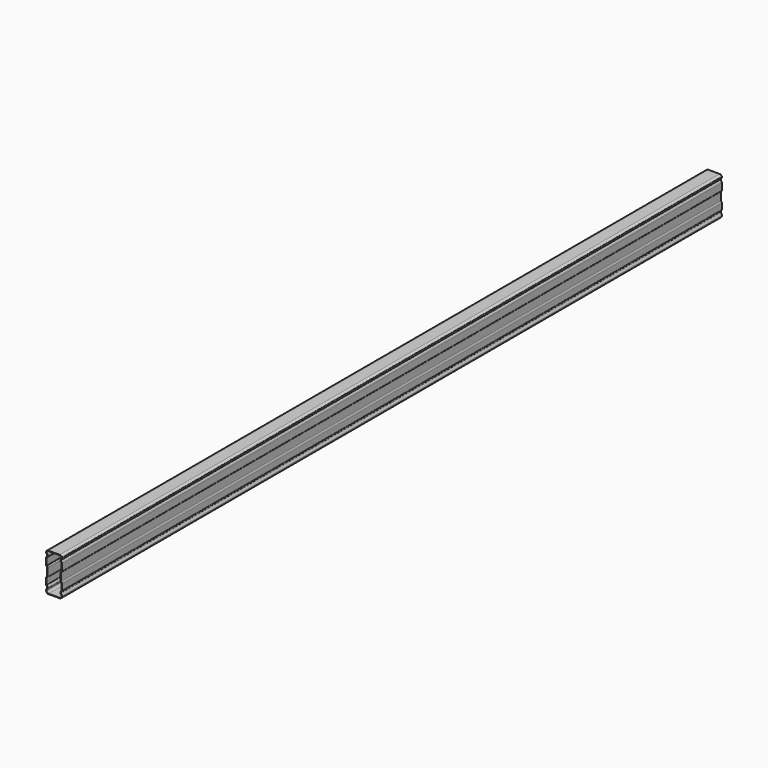
from build123d import *

# Parameters (mm, degrees)
F1_DEPTH = 2583
F2_T     = -1.5


with BuildPart() as f1:
    # F0 (on Front) → F1 (new body)
    with BuildSketch(Plane.XZ):
        with BuildLine():
            Line((-40.846474, 85.706456), (-76.418904, 85.706456))
            ThreePointArc((-76.418904, 85.706456), (-80.938799, 84.191483), (-83.632689, 80.258603))
            ThreePointArc((-83.632689, 80.258603), (-82.918779, 76.67027), (-80.88578, 73.628443))
            ThreePointArc((-80.88578, 73.628443), (-80.13546, 72.376035), (-80.065164, 70.917761))
            ThreePointArc((-80.065164, 70.917761), (-81.024186, 68.275196), (-82.723568, 66.035783))
            ThreePointArc((-82.723568, 66.035783), (-83.396078, 65.05222), (-83.632689, 63.884452))
            Line((-83.632689, 63.884452), (-83.632689, 42.902452))
            ThreePointArc((-83.632689, 42.902452), (-83.230765, 41.402452), (-82.132689, 40.304376))
            ThreePointArc((-82.132689, 40.304376), (-81.034613, 39.2063), (-80.632689, 37.7063))
            Line((-80.632689, 37.7063), (-80.632689, 13.706456))
            ThreePointArc((-80.632689, 13.706456), (-81.034613, 12.206456), (-82.132689, 11.10838))
            ThreePointArc((-82.132689, 11.10838), (-83.230765, 10.010304), (-83.632689, 8.510304))
            Line((-83.632689, 8.510304), (-83.632689, -10.388976))
            ThreePointArc((-83.632689, -10.388976), (-83.38823, -11.575142), (-82.694695, -12.567996))
            ThreePointArc((-82.694695, -12.567996), (-80.972966, -14.807673), (-80.030346, -17.470749))
            ThreePointArc((-80.030346, -17.470749), (-80.11711, -18.910604), (-80.865855, -20.143524))
            ThreePointArc((-80.865855, -20.143524), (-82.913386, -23.19222), (-83.632689, -26.793544))
            ThreePointArc((-83.632689, -26.793544), (-81.43599, -32.096845), (-76.132689, -34.293544))
            Line((-76.132689, -34.293544), (-41.132689, -34.293544))
            ThreePointArc((-41.132689, -34.293544), (-35.829388, -32.096845), (-33.632689, -26.793544))
            ThreePointArc((-33.632689, -26.793544), (-34.351992, -23.19222), (-36.399522, -20.143524))
            ThreePointArc((-36.399522, -20.143524), (-37.148267, -18.910604), (-37.235032, -17.470749))
            ThreePointArc((-37.235032, -17.470749), (-36.292412, -14.807673), (-34.570682, -12.567996))
            ThreePointArc((-34.570682, -12.567996), (-33.877147, -11.575142), (-33.632689, -10.388976))
            Line((-33.632689, -10.388976), (-33.632689, 8.510304))
            ThreePointArc((-33.632689, 8.510304), (-34.034613, 10.010304), (-35.132689, 11.10838))
            ThreePointArc((-35.132689, 11.10838), (-36.230765, 12.206456), (-36.632689, 13.706456))
            Line((-36.632689, 13.706456), (-36.632689, 37.7063))
            ThreePointArc((-36.632689, 37.7063), (-36.230765, 39.2063), (-35.132689, 40.304376))
            ThreePointArc((-35.132689, 40.304376), (-34.034613, 41.402452), (-33.632689, 42.902452))
            Line((-33.632689, 42.902452), (-33.632689, 63.884452))
            ThreePointArc((-33.632689, 63.884452), (-33.8693, 65.05222), (-34.541809, 66.035783))
            ThreePointArc((-34.541809, 66.035783), (-36.241192, 68.275196), (-37.200214, 70.917761))
            ThreePointArc((-37.200214, 70.917761), (-37.129917, 72.376035), (-36.379598, 73.628443))
            ThreePointArc((-36.379598, 73.628443), (-34.346598, 76.67027), (-33.632689, 80.258603))
            ThreePointArc((-33.632689, 80.258603), (-36.326579, 84.191483), (-40.846474, 85.706456))
        make_face()
    extrude(amount=F1_DEPTH)

    # F2
    f2_openings = [f1.faces().sort_by_distance(p)[0] for p in [
        (-58.632689, -2583, 25.725749),
        (-58.632689, 0, 25.725749),
    ]]
    offset(amount=F2_T, openings=f2_openings)


solid = f1.part
